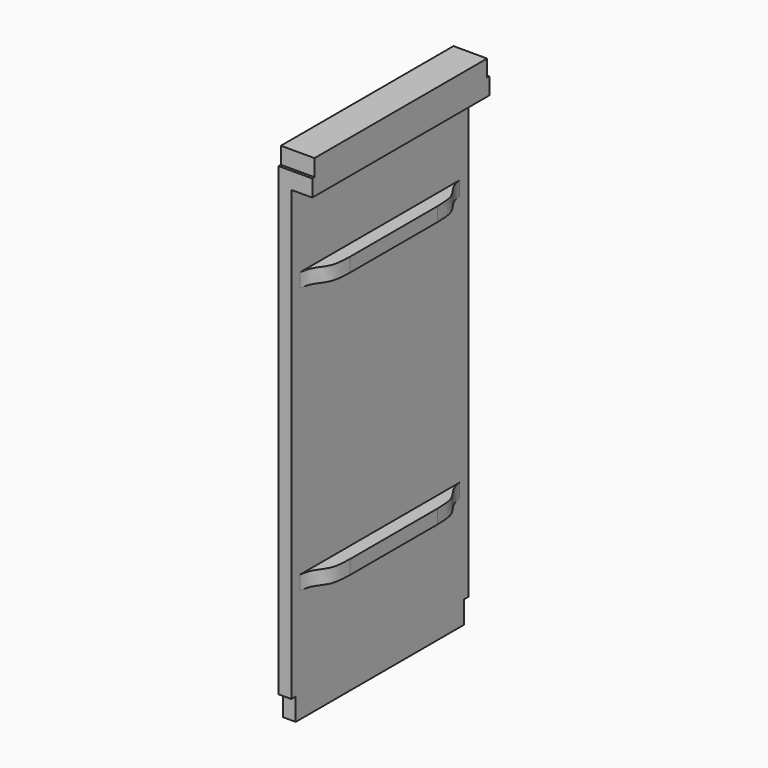
from build123d import *

# Parameters (mm, degrees)
F0_W     = 15.875
F0_H     = 15.875
F1_DEPTH = 250.825
F4_DEPTH = 317.5
F2_W     = 6.35
F2_H     = 25.4
F2_W_2   = 3.175
F2_H_2   = 19.05
F5_DEPTH = 38.101


with BuildPart() as f1:
    # F0 (on Front) → F1 (new body)
    with BuildSketch(Plane.XZ):
        Polygon((-14.2875, 571.5), (-14.2875, 552.45), (0, 552.45), (0, 533.4), (23.8125, 533.4), (23.8125, 571.5), align=None)
        with Locations((7.9375, 438.15)):
            Rectangle(F0_W, F0_H)
        Polygon((-14.2875, 0), (0, 0), (0, 128.5875), (0, 144.4625), (0, 430.2125), (0, 446.0875), (0, 533.4), (0, 552.45), (-14.2875, 552.45), align=None)
        with Locations((7.9375, 136.525)):
            Rectangle(F0_W, F0_H)
    extrude(amount=F1_DEPTH)

    # F3 (on face) → F4 (cut, through all)
    with BuildSketch(Plane(origin=(0, 0, 128.5875), x_dir=(1, 0, 0), z_dir=(0, 0, -1))):
        with BuildLine():
            Line((0, 250.825), (0, 238.125))
            add(Edge.make_bspline(
                [(0, 238.125), (0.6926233759, 234.4606029013), (1.9236757367, 227.3559423783), (7.1384263146, 219.8390585837), (9.937069342, 216.0543113654), (15.004380788, 207.4287550118), (15.5609760484, 196.837061745), (15.875, 187.325)],
                knots=[0, 0, 0, 0, 0.20885854, 0.3936531927, 0.5285953381, 0.7122340762, 1, 1, 1, 1], degree=3))
            Line((15.875, 187.325), (15.875, 250.825))
            Line((15.875, 250.825), (0, 250.825))
        make_face()
        with BuildLine():
            add(Edge.make_bspline(
                [(0, 12.7), (0.6926233759, 16.3643970987), (1.9236757367, 23.4690576217), (7.1384263146, 30.9859414163), (9.937069342, 34.7706886346), (15.004380788, 43.3962449882), (15.5609760484, 53.987938255), (15.875, 63.5)],
                knots=[0, 0, 0, 0, 0.20885854, 0.3936531927, 0.5285953381, 0.7122340762, 1, 1, 1, 1], degree=3))
            Line((0, 12.7), (0, 0))
            Line((0, 0), (15.875, 0))
            Line((15.875, 0), (15.875, 63.5))
        make_face()
    extrude(amount=-F4_DEPTH, mode=Mode.SUBTRACT)

    # F2 (on face) → F5 (cut, through all)
    with BuildSketch(Plane(origin=(-14.2875, 0, 0), x_dir=(0, -1, 0), z_dir=(-1, 0, 0))):
        with Locations((3.175, 12.7)):
            Rectangle(F2_W, F2_H)
        with Locations((247.65, 12.7)):
            Rectangle(F2_W, F2_H)
        with Locations((249.2375, 561.975)):
            Rectangle(F2_W_2, F2_H_2)
        with Locations((1.5875, 561.975)):
            Rectangle(F2_W_2, F2_H_2)
    extrude(amount=-F5_DEPTH, mode=Mode.SUBTRACT)


solid = f1.part
